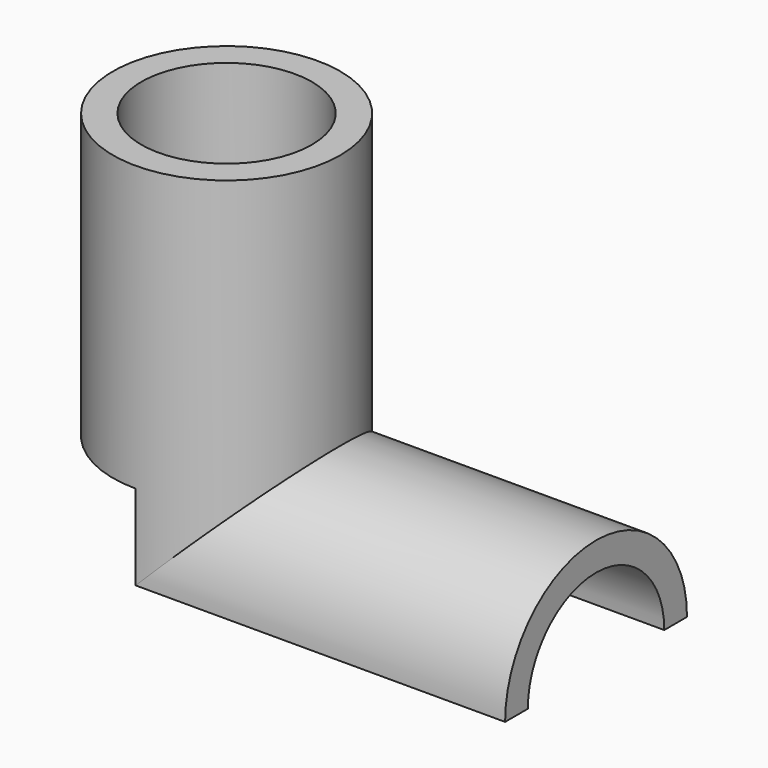
from build123d import *

# Parameters (mm, degrees)
F0_R     = 10.16
F0_R_2   = 7.62
F1_DEPTH = 25.4
F3_DEPTH = 25.4
F5_DEPTH = 46.736
F7_DEPTH = 7.62
F8_DEPTH = 7.62
F9_DEPTH = 7.62


with BuildPart() as f1:
    # F0 (on Top) → F1 (new body)
    with BuildSketch(Plane.XY):
        Circle(F0_R)
        Circle(F0_R_2, mode=Mode.SUBTRACT)
    extrude(amount=F1_DEPTH)

    # F2 (on Right) → F3 (join)
    with BuildSketch(Plane.YZ):
        with BuildLine():
            Line((-10.16, 0), (-7.5868873905, 0))
            ThreePointArc((-7.5868873905, 0), (0, 7.5868873905), (7.5868873905, 0))
            Line((7.5868873905, 0), (10.16, 0))
            ThreePointArc((10.16, 0), (0, 10.16), (-10.16, 0))
        make_face()
    extrude(amount=F3_DEPTH)

    # F4 (on Right) → F5 (cut)
    with BuildSketch(Plane.YZ):
        with BuildLine():
            ThreePointArc((7.62, 0), (0, 7.62), (-7.62, 0))
            Line((-7.62, 0), (7.62, 0))
        make_face()
    extrude(amount=F5_DEPTH, mode=Mode.SUBTRACT)

    # F6 (on face) → F7 (cut)
    with BuildSketch(Plane(origin=(0, 0, 0), x_dir=(1, 0, 0), z_dir=(0, 0, -1))):
        with BuildLine():
            Line((0, 7.62), (0, 10.16))
            ThreePointArc((0, 10.16), (-10.16, 0), (0, -10.16))
            Line((0, -10.16), (0, -7.62))
            ThreePointArc((0, -7.62), (-7.62, 0), (0, 7.62))
        make_face()
    extrude(amount=-F7_DEPTH, mode=Mode.SUBTRACT)

    # F8 (add): a face of the model
    f8_faces = [f1.faces().sort_by_distance(p)[0] for p in [
        (-9.8726318041, 0, 25.4),
    ]]
    extrude(f8_faces, amount=F8_DEPTH)

    # F9 (add): a face of the model
    f9_faces = [f1.faces().sort_by_distance(p)[0] for p in [
        (25.4, 0, 7.8471845065),
    ]]
    extrude(f9_faces, amount=F9_DEPTH)


solid = f1.part
